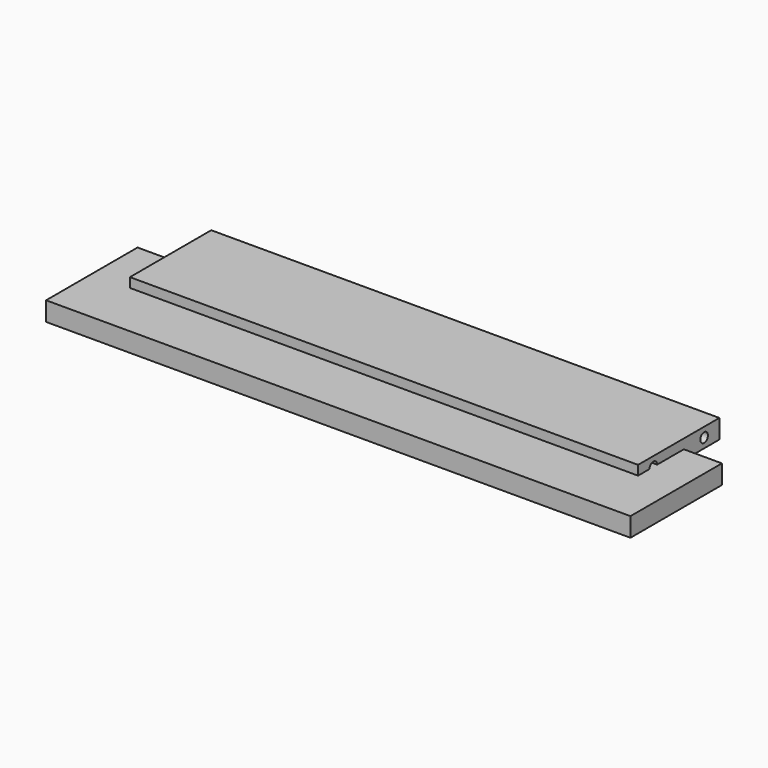
from build123d import *

# Parameters (mm, degrees)
F0_W     = 101.6
F0_H     = 19.05
F1_DEPTH = 254
F2_R     = 4.7625
F3_DEPTH = 25.4
F4_R     = 4.7625
F5_DEPTH = 25.4
F6_W     = 584.2
F6_H     = 19.05
F7_DEPTH = 57.15


with BuildPart() as f1:
    # F0 (on Right) → F1 (new body, symmetric)
    with BuildSketch(Plane.YZ):
        with Locations((50.8, 9.525)):
            Rectangle(F0_W, F0_H)
    extrude(amount=F1_DEPTH, both=True)

    # F2 (on face) → F3 (cut)
    with BuildSketch(Plane.YZ.offset(254)):
        with Locations((19.05, 9.525)):
            Circle(F2_R)
        with Locations((82.55, 9.525)):
            Circle(F2_R)
    extrude(amount=-F3_DEPTH, mode=Mode.SUBTRACT)

    # F4 (on face) → F5 (cut)
    with BuildSketch(Plane(origin=(-254, 0, 0), x_dir=(0, -1, 0), z_dir=(-1, 0, 0))):
        with Locations((-82.55, 9.525)):
            Circle(F4_R)
        with Locations((-19.05, 9.525)):
            Circle(F4_R)
    extrude(amount=-F5_DEPTH, mode=Mode.SUBTRACT)


with BuildPart() as f7:
    # F6 (on Front) → F7 (new body, symmetric)
    with BuildSketch(Plane.XZ):
        Rectangle(F6_W, F6_H)
    extrude(amount=F7_DEPTH, both=True)


solid = Compound([f1.part, f7.part])
